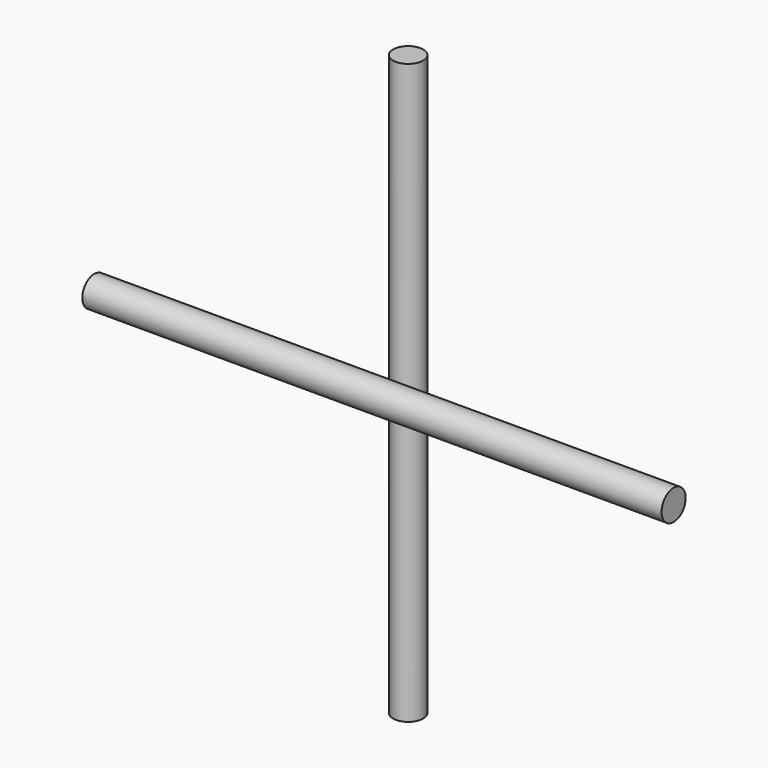
from build123d import *

# Parameters (mm, degrees)
F0_R     = 3.96875
F1_DEPTH = 76.2
F2_R     = 3.96875
F3_DEPTH = 76.2


with BuildPart() as f1:
    # F0 (on Top) → F1 (new body, symmetric)
    with BuildSketch(Plane.XY):
        Circle(F0_R)
    extrude(amount=F1_DEPTH, both=True)


with BuildPart() as f3:
    # F2 (on Right) → F3 (new body, symmetric)
    with BuildSketch(Plane.YZ):
        with Locations((-7.9375, 0)):
            Circle(F2_R)
    extrude(amount=F3_DEPTH, both=True)


solid = Compound([f1.part, f3.part])
